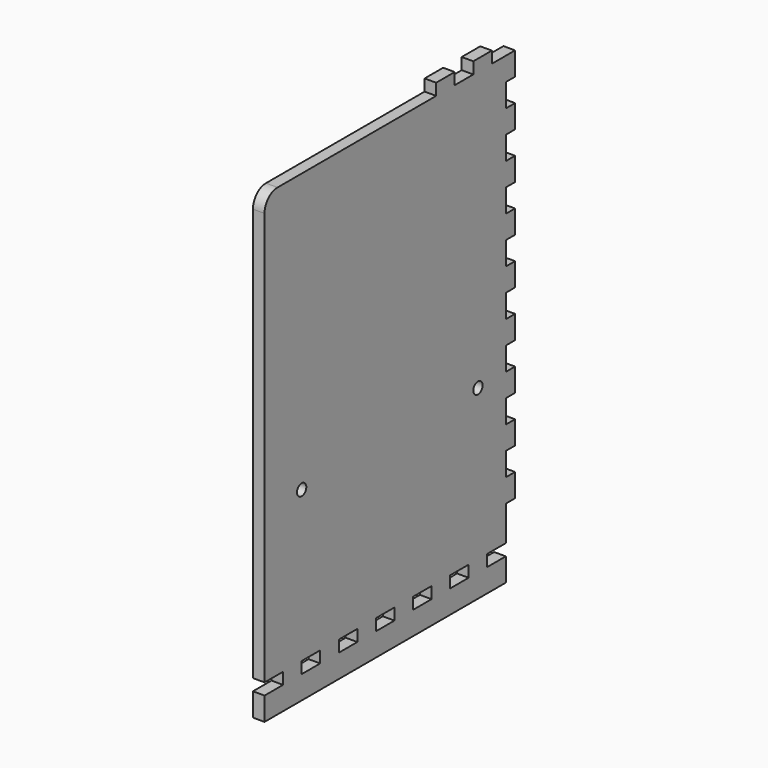
from build123d import *

# Parameters (mm, degrees)
SKETCH_W        = 130
SKETCH_H        = 200
PAD_DEPTH       = 2.5
SKETCH001_R     = 2.5
POCKET_DEPTH    = 5.001
SKETCH002_W     = 10
SKETCH002_H     = 5
POCKET001_DEPTH = 5.001
SKETCH003_W     = 5
SKETCH003_H     = 10
PAD001_DEPTH    = 5
SKETCH004_W     = 10
SKETCH004_H     = 5
PAD002_DEPTH    = 5
FILLET_R        = 7


with BuildPart() as part:
    # Sketch → Pad (new body, symmetric)
    with BuildSketch(Plane.YZ):
        Rectangle(SKETCH_W, SKETCH_H)
    extrude(amount=PAD_DEPTH, both=True)

    # Sketch001 (on Face6 of Pad) → Pocket (cut, through all)
    with BuildSketch(Plane.YZ.offset(2.5)):
        with Locations((-45, -20)):
            Circle(SKETCH001_R)
        with Locations((50, -20)):
            Circle(SKETCH001_R)
    extrude(amount=-POCKET_DEPTH, mode=Mode.SUBTRACT)

    # Sketch002 (on Face5 of Pocket) → Pocket001 (cut, through all)
    with BuildSketch(Plane.YZ.offset(2.5)):
        with Locations((-60, -87.5)):
            Rectangle(SKETCH002_W, SKETCH002_H)
        with Locations((-40, -87.5)):
            Rectangle(SKETCH002_W, SKETCH002_H)
        with Locations((-20, -87.5)):
            Rectangle(SKETCH002_W, SKETCH002_H)
        with Locations((0, -87.5)):
            Rectangle(SKETCH002_W, SKETCH002_H)
        with Locations((20, -87.5)):
            Rectangle(SKETCH002_W, SKETCH002_H)
        with Locations((40, -87.5)):
            Rectangle(SKETCH002_W, SKETCH002_H)
        with Locations((60, -87.5)):
            Rectangle(SKETCH002_W, SKETCH002_H)
    extrude(amount=-POCKET001_DEPTH, mode=Mode.SUBTRACT)

    # Sketch003 (on Face5 of Pocket001) → Pad001 (join)
    with BuildSketch(Plane.YZ.offset(2.5)):
        with Locations((67.5, 95)):
            Rectangle(SKETCH003_W, SKETCH003_H)
        with Locations((67.5, 75)):
            Rectangle(SKETCH003_W, SKETCH003_H)
        with Locations((67.5, 55)):
            Rectangle(SKETCH003_W, SKETCH003_H)
        with Locations((67.5, 35)):
            Rectangle(SKETCH003_W, SKETCH003_H)
        with Locations((67.5, 15)):
            Rectangle(SKETCH003_W, SKETCH003_H)
        with Locations((67.5, -5)):
            Rectangle(SKETCH003_W, SKETCH003_H)
        with Locations((67.5, -25)):
            Rectangle(SKETCH003_W, SKETCH003_H)
        with Locations((67.5, -45)):
            Rectangle(SKETCH003_W, SKETCH003_H)
        with Locations((67.5, -65)):
            Rectangle(SKETCH003_W, SKETCH003_H)
    extrude(amount=-PAD001_DEPTH)

    # Sketch004 (on Face69 of Pad001) → Pad002 (join)
    with BuildSketch(Plane.YZ.offset(2.5)):
        with Locations((32.5, 102.5)):
            Rectangle(SKETCH004_W, SKETCH004_H)
        with Locations((52.5, 102.5)):
            Rectangle(SKETCH004_W, SKETCH004_H)
    extrude(amount=-PAD002_DEPTH)

    # Fillet
    fillet_edges = [part.edges().sort_by_distance(p)[0] for p in [
        (0, -65, 100),
    ]]
    fillet(fillet_edges, radius=FILLET_R)


solid = part.part
